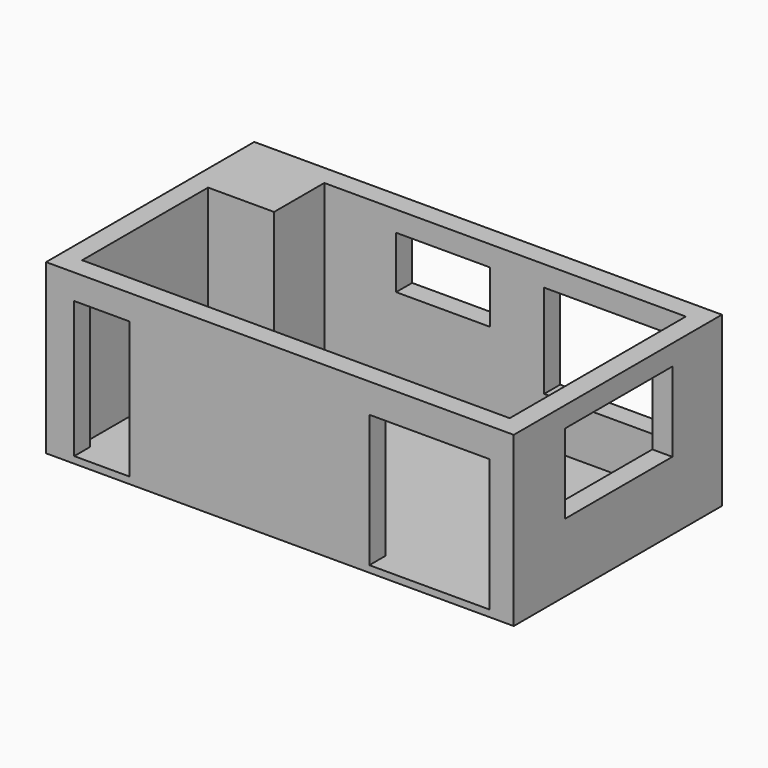
from build123d import *

# Parameters (mm, degrees)
F0_W      = 7000
F0_H      = 3895
F0_W_2    = 6400
F0_H_2    = 3295
F1_DEPTH  = 2420
F2_W      = 1801
F2_H      = 1982
F3_DEPTH  = 300
F4_W      = 827
F4_H      = 2044
F5_DEPTH  = 300
F6_W      = 2009
F6_H      = 1190
F7_DEPTH  = 300
F8_W      = 1802
F8_H      = 1400
F9_DEPTH  = 300
F10_W     = 988
F10_H     = 939
F11_DEPTH = 2420
F12_W     = 1403
F12_H     = 783
F13_DEPTH = 300
F14_W     = 7000
F14_H     = 3895
F15_DEPTH = 100


with BuildPart() as f1:
    # F0 (on Top) → F1 (new body)
    with BuildSketch(Plane.XY):
        with Locations((3200, -1647.5)):
            Rectangle(F0_W, F0_H)
        with Locations((3200, -1647.5)):
            Rectangle(F0_W_2, F0_H_2, mode=Mode.SUBTRACT)
    extrude(amount=F1_DEPTH)

    # F2 (on face) → F3 (cut)
    with BuildSketch(Plane.XZ.offset(3595)):
        with Locations((5439.5, 991)):
            Rectangle(F2_W, F2_H)
    extrude(amount=-F3_DEPTH, mode=Mode.SUBTRACT)

    # F4 (on face) → F5 (cut)
    with BuildSketch(Plane.XZ.offset(3595)):
        with Locations((534.5, 1022)):
            Rectangle(F4_W, F4_H)
    extrude(amount=-F5_DEPTH, mode=Mode.SUBTRACT)

    # F6 (on face) → F7 (cut)
    with BuildSketch(Plane.YZ.offset(6700)):
        with Locations((-1631.5, 1519)):
            Rectangle(F6_W, F6_H)
    extrude(amount=-F7_DEPTH, mode=Mode.SUBTRACT)

    # F8 (on face) → F9 (cut)
    with BuildSketch(Plane(origin=(0, 300, 0), x_dir=(-1, 0, 0), z_dir=(0, 1, 0))):
        with Locations((-5180, 1411)):
            Rectangle(F8_W, F8_H)
    extrude(amount=-F9_DEPTH, mode=Mode.SUBTRACT)

    # F10 (on Top) → F11 (join)
    with BuildSketch(Plane.XY):
        with Locations((494, -469.5)):
            Rectangle(F10_W, F10_H)
    extrude(amount=F11_DEPTH)

    # F12 (on face) → F13 (cut)
    with BuildSketch(Plane(origin=(0, 300, 0), x_dir=(-1, 0, 0), z_dir=(0, 1, 0))):
        with Locations((-2764.5, 1722.5)):
            Rectangle(F12_W, F12_H)
    extrude(amount=-F13_DEPTH, mode=Mode.SUBTRACT)

    # F14 (on Top) → F15 (join)
    with BuildSketch(Plane.XY):
        with Locations((3200, -1647.5)):
            Rectangle(F14_W, F14_H)
    extrude(amount=-F15_DEPTH)


solid = f1.part
